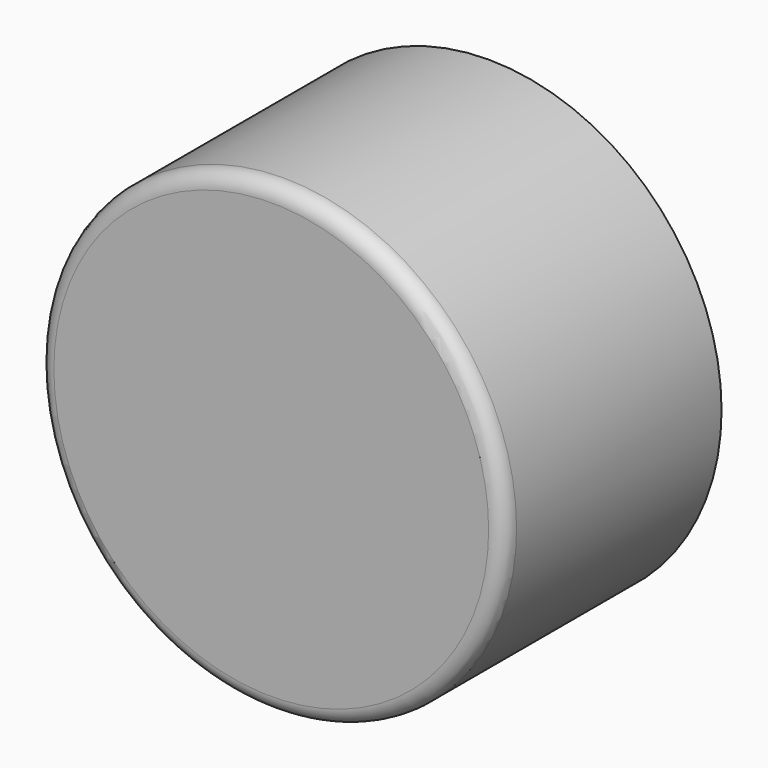
from build123d import *

# Parameters (mm, degrees)
F0_R     = 76.2
F1_DEPTH = 44.45
F2_R     = 5.08


with BuildPart() as f1:
    # F0 (on Front) → F1 (new body, symmetric)
    with BuildSketch(Plane.XZ):
        Circle(F0_R)
    extrude(amount=F1_DEPTH, both=True)

    # F2
    f2_edges = [f1.edges().sort_by_distance(p)[0] for p in [
        (-76.2, -44.45, 0),
    ]]
    fillet(f2_edges, radius=F2_R)


solid = f1.part
